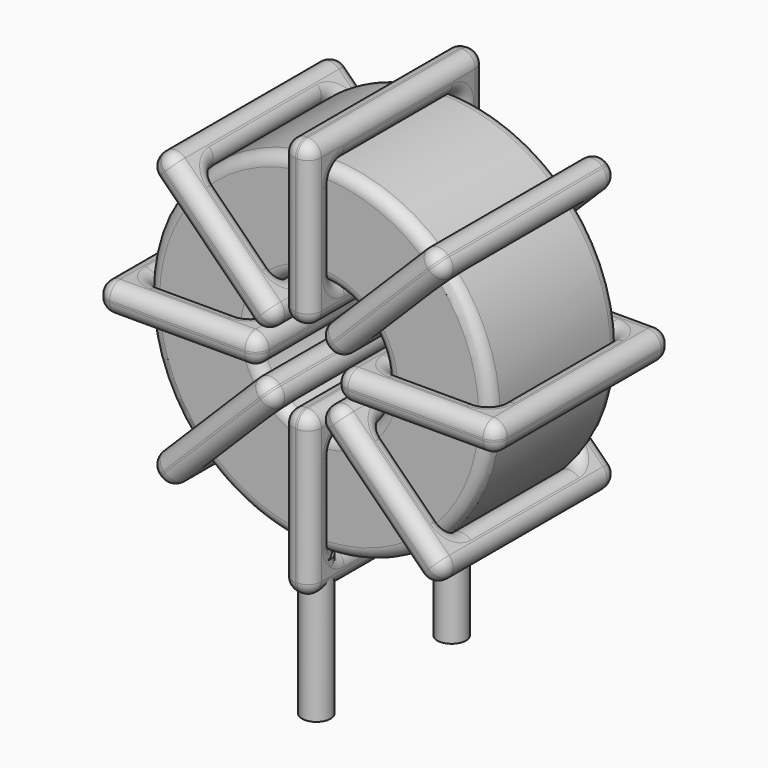
from build123d import *

# Parameters (mm, degrees)
SKETCH001_R       = 0.6
PAD001_DEPTH      = 1.2
PAD001_DEPTH_BACK = 4.7
SKETCH_R          = 7.2
SKETCH_R_2        = 2.8
PAD_DEPTH         = 3.4
FILLET_R          = 0.5
SKETCH003_W       = 6.8
SKETCH003_H       = 9.2
SKETCH003_W_2     = 4.4
SKETCH003_H_2     = 6.8
PAD002_DEPTH      = 0.6
FILLET001_R       = 0.564
SKETCH004_W       = 6.8
SKETCH004_H       = 9.2
SKETCH004_W_2     = 4.4
SKETCH004_H_2     = 6.8
PAD003_DEPTH      = 0.6
FILLET002_R       = 0.564
SKETCH005_W       = 6.8
SKETCH005_H       = 9.2
SKETCH005_W_2     = 4.4
SKETCH005_H_2     = 6.8
PAD004_DEPTH      = 0.6
FILLET003_R       = 0.564
SKETCH006_W       = 6.8
SKETCH006_H       = 9.2
SKETCH006_W_2     = 4.4
SKETCH006_H_2     = 6.8
PAD005_DEPTH      = 0.6
FILLET004_R       = 0.564


with BuildPart() as pad001:
    # Sketch001 → Pad001 (new body, two sides)
    with BuildSketch(Plane.XY.offset(1.7)) as pad001_sk:
        Circle(SKETCH001_R)
        with Locations((0, -7.1)):
            Circle(SKETCH001_R)
    extrude(amount=PAD001_DEPTH)
    extrude(pad001_sk.sketch, amount=-PAD001_DEPTH_BACK)


with BuildPart() as fillet_body:
    # Sketch → Pad (new body, symmetric)
    with BuildSketch(Plane.XZ.offset(3.55)):
        with Locations((0, 10.1)):
            Circle(SKETCH_R)
        with Locations((0, 10.1)):
            Circle(SKETCH_R_2, mode=Mode.SUBTRACT)
    extrude(amount=PAD_DEPTH, both=True)

    # Fillet
    fillet_edges = [fillet_body.edges().sort_by_distance(p)[0] for p in [
        (-2.8, -6.95, 10.1),
        (-7.2, -6.95, 10.1),
        (-7.2, -0.15, 10.1),
    ]]
    fillet(fillet_edges, radius=FILLET_R)


with BuildPart() as fillet001:
    # Sketch003 → Pad002 (new body, symmetric)
    with BuildSketch(Plane(origin=(0, 1.05, 10.1), x_dir=(1, 0, 0), z_dir=(0, 0, -1))):
        with Locations((-5, 4.6)):
            Rectangle(SKETCH003_W, SKETCH003_H)
        with Locations((-5, 4.6)):
            Rectangle(SKETCH003_W_2, SKETCH003_H_2, mode=Mode.SUBTRACT)
        with Locations((5, 4.6)):
            Rectangle(SKETCH003_W, SKETCH003_H)
        with Locations((5, 4.6)):
            Rectangle(SKETCH003_W_2, SKETCH003_H_2, mode=Mode.SUBTRACT)
    extrude(amount=PAD002_DEPTH, both=True)

    # Fillet001
    fillet001_edges = [fillet001.edges().sort_by_distance(p)[0] for p in [
        (-2.8, -6.95, 10.1),
        (-2.8, -0.15, 10.1),
        (-2.8, -3.55, 10.7),
        (-2.8, -3.55, 9.5),
        (-8.4, -8.15, 10.1),
        (-1.6, -8.15, 10.1),
        (-5, -8.15, 10.7),
        (-5, -8.15, 9.5),
        (-1.6, 1.05, 10.1),
        (-1.6, -3.55, 10.7),
        (-1.6, -3.55, 9.5),
        (2.8, -6.95, 10.1),
        (7.2, -6.95, 10.1),
        (5, -6.95, 10.7),
        (5, -6.95, 9.5),
        (7.2, -0.15, 10.1),
        (7.2, -3.55, 10.7),
        (7.2, -3.55, 9.5),
        (1.6, -8.15, 10.1),
        (8.4, -8.15, 10.1),
        (5, -8.15, 10.7),
        (5, -8.15, 9.5),
        (8.4, 1.05, 10.1),
        (8.4, -3.55, 10.7),
        (8.4, -3.55, 9.5),
        (-7.2, -6.95, 10.1),
        (-5, -6.95, 10.7),
        (-5, -6.95, 9.5),
        (2.8, -0.15, 10.1),
        (2.8, -3.55, 10.7),
        (2.8, -3.55, 9.5),
        (5, -0.15, 10.7),
        (5, -0.15, 9.5),
        (1.6, 1.05, 10.1),
        (5, 1.05, 10.7),
        (5, 1.05, 9.5),
        (1.6, -3.55, 10.7),
        (1.6, -3.55, 9.5),
        (-8.4, 1.05, 10.1),
        (-5, 1.05, 10.7),
        (-5, 1.05, 9.5),
        (-8.4, -3.55, 10.7),
        (-8.4, -3.55, 9.5),
        (-7.2, -0.15, 10.1),
        (-7.2, -3.55, 10.7),
        (-7.2, -3.55, 9.5),
        (-5, -0.15, 10.7),
        (-5, -0.15, 9.5),
    ]]
    fillet(fillet001_edges, radius=FILLET001_R)


with BuildPart() as fillet002:
    # Sketch004 → Pad003 (new body, symmetric)
    with BuildSketch(Plane(origin=(0, 1.05, 10.1), x_dir=(0.707108, 0, 0.707106), z_dir=(0.707106, 0, -0.707108))):
        with Locations((-5, 4.6)):
            Rectangle(SKETCH004_W, SKETCH004_H)
        with Locations((-5, 4.6)):
            Rectangle(SKETCH004_W_2, SKETCH004_H_2, mode=Mode.SUBTRACT)
        with Locations((5, 4.6)):
            Rectangle(SKETCH004_W, SKETCH004_H)
        with Locations((5, 4.6)):
            Rectangle(SKETCH004_W_2, SKETCH004_H_2, mode=Mode.SUBTRACT)
    extrude(amount=PAD003_DEPTH, both=True)

    # Fillet002
    fillet002_edges = [fillet002.edges().sort_by_distance(p)[0] for p in [
        (-1.979901, -6.95, 8.120103),
        (-1.979901, -0.15, 8.120103),
        (-2.404165, -3.55, 8.544368),
        (-1.555638, -3.55, 7.695839),
        (-5.939704, -8.15, 4.16031),
        (-5.939704, 1.05, 4.16031),
        (-6.363967, -3.55, 4.584574),
        (-5.51544, -3.55, 3.736045),
        (-1.131372, -8.15, 8.96863),
        (-3.959802, 1.05, 6.988735),
        (-3.111274, 1.05, 6.140206),
        (1.979901, -6.95, 12.079897),
        (5.091175, -6.95, 15.191163),
        (3.111274, -6.95, 14.059794),
        (3.959802, -6.95, 13.211265),
        (5.091175, -0.15, 15.191163),
        (4.666911, -3.55, 15.615427),
        (5.515438, -3.55, 14.766898),
        (1.131372, -8.15, 11.23137),
        (5.939704, -8.15, 16.03969),
        (3.111274, -8.15, 14.059794),
        (3.959802, -8.15, 13.211265),
        (5.939704, 1.05, 16.03969),
        (5.51544, -3.55, 16.463955),
        (6.363967, -3.55, 15.615426),
        (-5.091175, -6.95, 5.008837),
        (-3.959802, -6.95, 6.988735),
        (-3.111274, -6.95, 6.140206),
        (1.979901, -0.15, 12.079897),
        (1.555638, -3.55, 12.504161),
        (2.404165, -3.55, 11.655632),
        (3.111274, -0.15, 14.059794),
        (3.959802, -0.15, 13.211265),
        (1.131372, 1.05, 11.23137),
        (3.111274, 1.05, 14.059794),
        (3.959802, 1.05, 13.211265),
        (0.707109, -3.55, 11.655634),
        (1.555636, -3.55, 10.807105),
        (-1.131372, 1.05, 8.96863),
        (-1.555636, -3.55, 9.392895),
        (-0.707109, -3.55, 8.544366),
        (-3.959802, -8.15, 6.988735),
        (-3.111274, -8.15, 6.140206),
        (-5.091175, -0.15, 5.008837),
        (-5.515438, -3.55, 5.433102),
        (-4.666911, -3.55, 4.584573),
        (-3.959802, -0.15, 6.988735),
        (-3.111274, -0.15, 6.140206),
    ]]
    fillet(fillet002_edges, radius=FILLET002_R)


with BuildPart() as fillet003:
    # Sketch005 → Pad004 (new body, symmetric)
    with BuildSketch(Plane(origin=(0, 1.05, 10.1), x_dir=(0.707108, 0, -0.707106), z_dir=(-0.707106, 0, -0.707108))):
        with Locations((-5, 4.6)):
            Rectangle(SKETCH005_W, SKETCH005_H)
        with Locations((-5, 4.6)):
            Rectangle(SKETCH005_W_2, SKETCH005_H_2, mode=Mode.SUBTRACT)
        with Locations((5, 4.6)):
            Rectangle(SKETCH005_W, SKETCH005_H)
        with Locations((5, 4.6)):
            Rectangle(SKETCH005_W_2, SKETCH005_H_2, mode=Mode.SUBTRACT)
    extrude(amount=PAD004_DEPTH, both=True)

    # Fillet003
    fillet003_edges = [fillet003.edges().sort_by_distance(p)[0] for p in [
        (-1.979901, -6.95, 12.079897),
        (-1.979901, -0.15, 12.079897),
        (-1.555638, -3.55, 12.504161),
        (-2.404165, -3.55, 11.655632),
        (-5.939704, -8.15, 16.03969),
        (-1.131372, -8.15, 11.23137),
        (-3.111274, -8.15, 14.059794),
        (-3.959802, -8.15, 13.211265),
        (-1.131372, 1.05, 11.23137),
        (-0.707109, -3.55, 11.655634),
        (-1.555636, -3.55, 10.807105),
        (1.979901, -6.95, 8.120103),
        (5.091175, -6.95, 5.008837),
        (3.959802, -6.95, 6.988735),
        (3.111274, -6.95, 6.140206),
        (5.091175, -0.15, 5.008837),
        (5.515438, -3.55, 5.433102),
        (4.666911, -3.55, 4.584573),
        (1.131372, -8.15, 8.96863),
        (5.939704, -8.15, 4.16031),
        (3.959802, -8.15, 6.988735),
        (3.111274, -8.15, 6.140206),
        (5.939704, 1.05, 4.16031),
        (6.363967, -3.55, 4.584574),
        (5.51544, -3.55, 3.736045),
        (-5.091175, -6.95, 15.191163),
        (-3.111274, -6.95, 14.059794),
        (-3.959802, -6.95, 13.211265),
        (1.979901, -0.15, 8.120103),
        (2.404165, -3.55, 8.544368),
        (1.555638, -3.55, 7.695839),
        (3.959802, -0.15, 6.988735),
        (3.111274, -0.15, 6.140206),
        (1.131372, 1.05, 8.96863),
        (3.959802, 1.05, 6.988735),
        (3.111274, 1.05, 6.140206),
        (1.555636, -3.55, 9.392895),
        (0.707109, -3.55, 8.544366),
        (-5.939704, 1.05, 16.03969),
        (-3.111274, 1.05, 14.059794),
        (-3.959802, 1.05, 13.211265),
        (-5.51544, -3.55, 16.463955),
        (-6.363967, -3.55, 15.615426),
        (-5.091175, -0.15, 15.191163),
        (-4.666911, -3.55, 15.615427),
        (-5.515438, -3.55, 14.766898),
        (-3.111274, -0.15, 14.059794),
        (-3.959802, -0.15, 13.211265),
    ]]
    fillet(fillet003_edges, radius=FILLET003_R)


with BuildPart() as fillet004:
    # Sketch006 → Pad005 (new body, symmetric)
    with BuildSketch(Plane(origin=(0, 1.05, 10.1), x_dir=(0, 0, 1), z_dir=(1, 0, 0))):
        with Locations((-5, 4.6)):
            Rectangle(SKETCH006_W, SKETCH006_H)
        with Locations((-5, 4.6)):
            Rectangle(SKETCH006_W_2, SKETCH006_H_2, mode=Mode.SUBTRACT)
        with Locations((5, 4.6)):
            Rectangle(SKETCH006_W, SKETCH006_H)
        with Locations((5, 4.6)):
            Rectangle(SKETCH006_W_2, SKETCH006_H_2, mode=Mode.SUBTRACT)
    extrude(amount=PAD005_DEPTH, both=True)

    # Fillet004
    fillet004_edges = [fillet004.edges().sort_by_distance(p)[0] for p in [
        (0, -6.95, 7.3),
        (0, -0.15, 7.3),
        (-0.6, -3.55, 7.3),
        (0.6, -3.55, 7.3),
        (0, -8.15, 1.7),
        (0, -8.15, 8.5),
        (-0.6, -8.15, 5.1),
        (0.6, -8.15, 5.1),
        (0, 1.05, 8.5),
        (-0.6, -3.55, 8.5),
        (0.6, -3.55, 8.5),
        (0, -6.95, 12.9),
        (0, -6.95, 17.3),
        (-0.6, -6.95, 15.1),
        (0.6, -6.95, 15.1),
        (0, -0.15, 17.3),
        (-0.6, -3.55, 17.3),
        (0.6, -3.55, 17.3),
        (0, -8.15, 11.7),
        (0, -8.15, 18.5),
        (-0.6, -8.15, 15.1),
        (0.6, -8.15, 15.1),
        (0, 1.05, 18.5),
        (-0.6, -3.55, 18.5),
        (0.6, -3.55, 18.5),
        (0, -6.95, 2.9),
        (-0.6, -6.95, 5.1),
        (0.6, -6.95, 5.1),
        (0, -0.15, 12.9),
        (-0.6, -3.55, 12.9),
        (0.6, -3.55, 12.9),
        (-0.6, -0.15, 15.1),
        (0.6, -0.15, 15.1),
        (0, 1.05, 11.7),
        (-0.6, 1.05, 15.1),
        (0.6, 1.05, 15.1),
        (-0.6, -3.55, 11.7),
        (0.6, -3.55, 11.7),
        (0, 1.05, 1.7),
        (-0.6, 1.05, 5.1),
        (0.6, 1.05, 5.1),
        (-0.6, -3.55, 1.7),
        (0.6, -3.55, 1.7),
        (0, -0.15, 2.9),
        (-0.6, -3.55, 2.9),
        (0.6, -3.55, 2.9),
        (-0.6, -0.15, 5.1),
        (0.6, -0.15, 5.1),
    ]]
    fillet(fillet004_edges, radius=FILLET004_R)


solid = Compound([pad001.part, fillet_body.part, fillet001.part, fillet002.part, fillet003.part, fillet004.part])
